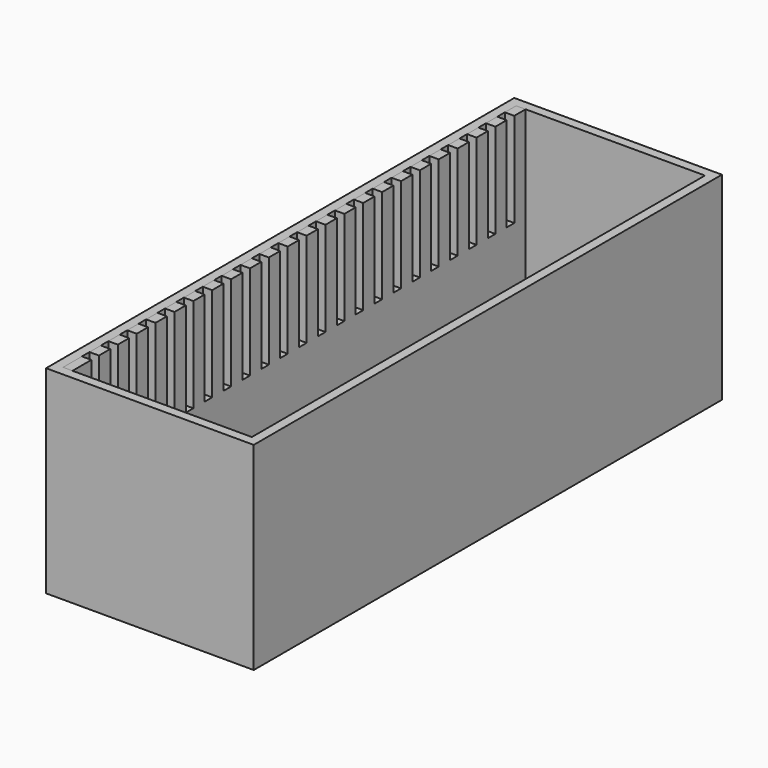
from build123d import *

# Parameters (mm, degrees)
F0_W     = 220
F0_H     = 620
F0_W_2   = 200
F0_H_2   = 600
F1_DEPTH = 200
F2_DEPTH = 10
F3_W     = 600
F3_H     = 200
F4_DEPTH = 10
F5_W     = 10
F5_H     = 100
F6_DEPTH = 10


with BuildPart() as f1:
    # F0 (on Top) → F1 (new body)
    with BuildSketch(Plane.XY):
        with Locations((-62.2743272781, 248.0239227414)):
            Rectangle(F0_W, F0_H)
        with Locations((-62.2743272781, 248.0239227414)):
            Rectangle(F0_W_2, F0_H_2, mode=Mode.SUBTRACT)
    extrude(amount=F1_DEPTH)

    # F0 (on Top) → F2 (join)
    with BuildSketch(Plane.XY):
        with Locations((-62.2743272781, 248.0239227414)):
            Rectangle(F0_W, F0_H)
        with Locations((-62.2743272781, 248.0239227414)):
            Rectangle(F0_W_2, F0_H_2, mode=Mode.SUBTRACT)
        with Locations((-62.2743272781, 248.0239227414)):
            Rectangle(F0_W_2, F0_H_2)
    extrude(amount=-F2_DEPTH)


with BuildPart() as f4:
    # F3 (on face) → F4 (new body)
    with BuildSketch(Plane.YZ.offset(-162.2743272781)):
        with Locations((248.0239227414, 100)):
            Rectangle(F3_W, F3_H)
    extrude(amount=F4_DEPTH)

    # F5 (on face) → F6 (cut, through all)
    with BuildSketch(Plane.YZ.offset(-152.2743272781)):
        with Locations((-21.9760772586, 150)):
            Rectangle(F5_W, F5_H)
        with Locations((3.0239227414, 150)):
            Rectangle(F5_W, F5_H)
        with Locations((28.0239227414, 150)):
            Rectangle(F5_W, F5_H)
        with Locations((53.0239227414, 150)):
            Rectangle(F5_W, F5_H)
        with Locations((78.0239227414, 150)):
            Rectangle(F5_W, F5_H)
        with Locations((103.0239227414, 150)):
            Rectangle(F5_W, F5_H)
        with Locations((128.0239227414, 150)):
            Rectangle(F5_W, F5_H)
        with Locations((153.0239227414, 150)):
            Rectangle(F5_W, F5_H)
        with Locations((178.0239227414, 150)):
            Rectangle(F5_W, F5_H)
        with Locations((203.0239227414, 150)):
            Rectangle(F5_W, F5_H)
        with Locations((228.0239227414, 150)):
            Rectangle(F5_W, F5_H)
        with Locations((253.0239227414, 150)):
            Rectangle(F5_W, F5_H)
        with Locations((278.0239227414, 150)):
            Rectangle(F5_W, F5_H)
        with Locations((303.0239227414, 150)):
            Rectangle(F5_W, F5_H)
        with Locations((328.0239227414, 150)):
            Rectangle(F5_W, F5_H)
        with Locations((353.0239227414, 150)):
            Rectangle(F5_W, F5_H)
        with Locations((378.0239227414, 150)):
            Rectangle(F5_W, F5_H)
        with Locations((403.0239227414, 150)):
            Rectangle(F5_W, F5_H)
        with Locations((428.0239227414, 150)):
            Rectangle(F5_W, F5_H)
        with Locations((453.0239227414, 150)):
            Rectangle(F5_W, F5_H)
        with Locations((478.0239227414, 150)):
            Rectangle(F5_W, F5_H)
        with Locations((503.0239227414, 150)):
            Rectangle(F5_W, F5_H)
        with Locations((528.0239227414, 150)):
            Rectangle(F5_W, F5_H)
    extrude(amount=-F6_DEPTH, mode=Mode.SUBTRACT)


solid = Compound([f1.part, f4.part])
